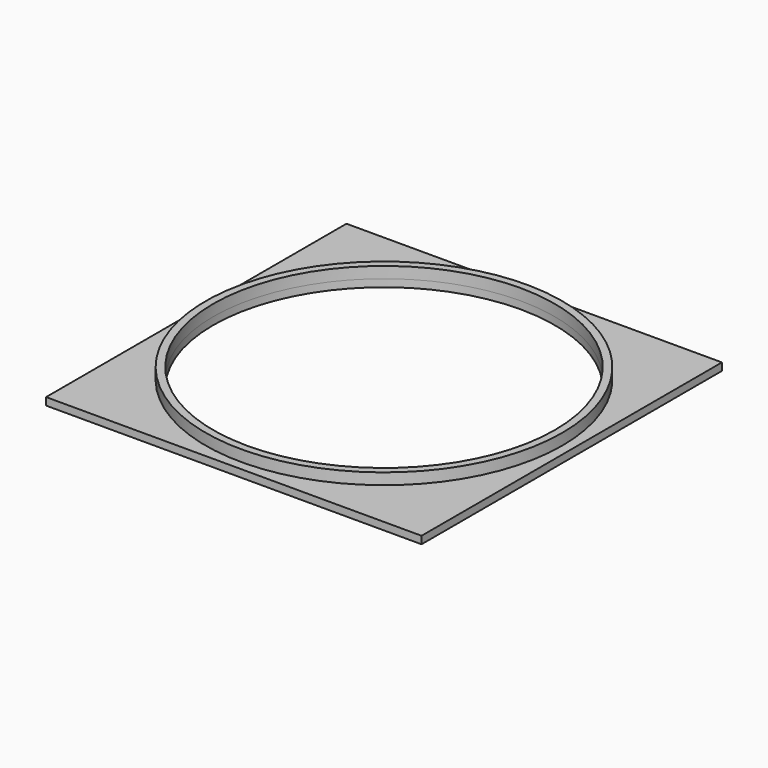
from build123d import *

# Parameters (mm, degrees)
F0_R     = 47.5
F0_R_2   = 45.5
F1_DEPTH = 3
F2_W     = 100
F2_H     = 100
F2_R     = 45.5
F3_DEPTH = 2


with BuildPart() as f1:
    # F0 (on Top) → F1 (new body)
    with BuildSketch(Plane.XY):
        Circle(F0_R)
        Circle(F0_R_2, mode=Mode.SUBTRACT)
    extrude(amount=F1_DEPTH)

    # F2 (on Top) → F3 (join)
    with BuildSketch(Plane.XY):
        Rectangle(F2_W, F2_H)
        Circle(F2_R, mode=Mode.SUBTRACT)
    extrude(amount=-F3_DEPTH)


solid = f1.part
